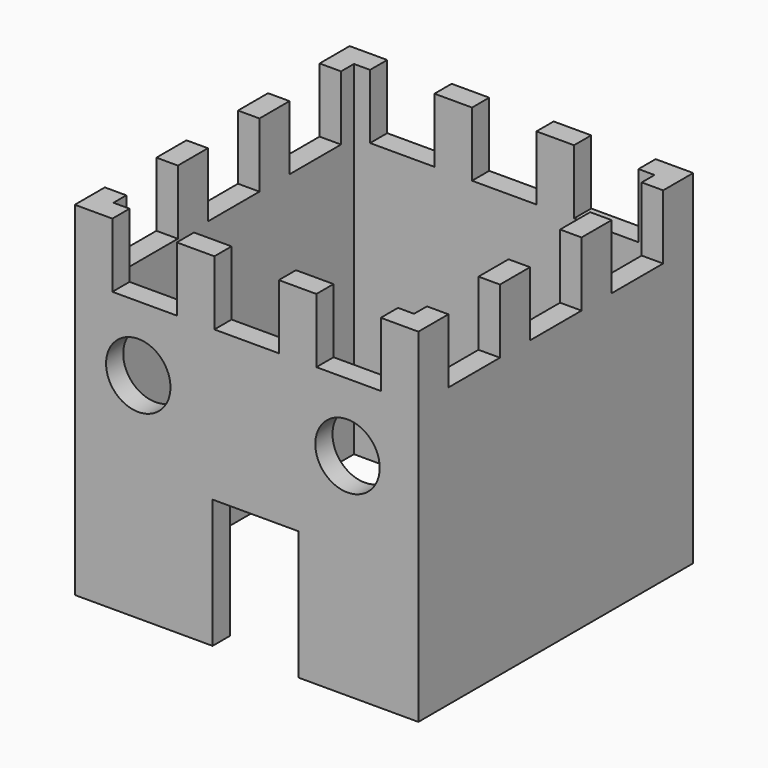
from build123d import *

# Parameters (mm, degrees)
F0_W      = 203.2
F0_H      = 203.2
F1_DEPTH  = 203.2
F2_W      = 177.8
F2_H      = 177.8
F3_DEPTH  = 203.2
F4_W      = 50.8
F4_H      = 76.2
F5_DEPTH  = 25.4
F6_W      = 38.1
F6_H      = 38.1
F7_DEPTH  = 25.4
F8_W      = 38.1
F8_H      = 38.1
F9_DEPTH  = 25.4
F10_W     = 38.1
F10_H     = 38.1
F11_DEPTH = 25.4
F12_W     = 38.1
F12_H     = 38.1
F13_DEPTH = 25.4
F14_R     = 19.05
F15_DEPTH = 25.4


with BuildPart() as f1:
    # F0 (on Front) → F1 (new body)
    with BuildSketch(Plane.XZ):
        Rectangle(F0_W, F0_H)
    extrude(amount=F1_DEPTH)

    # F2 (on face) → F3 (cut)
    with BuildSketch(Plane.XY.offset(101.6)):
        with Locations((0, -101.6)):
            Rectangle(F2_W, F2_H)
    extrude(amount=-F3_DEPTH, mode=Mode.SUBTRACT)

    # F4 (on face) → F5 (cut)
    with BuildSketch(Plane.XZ.offset(203.2)):
        with Locations((5.292703, -63.5)):
            Rectangle(F4_W, F4_H)
    extrude(amount=-F5_DEPTH, mode=Mode.SUBTRACT)

    # F6 (on face) → F7 (cut)
    with BuildSketch(Plane.XZ.offset(203.2)):
        with Locations((-60.325, 82.55)):
            Rectangle(F6_W, F6_H)
        with Locations((0, 82.55)):
            Rectangle(F6_W, F6_H)
        with Locations((60.325, 82.55)):
            Rectangle(F6_W, F6_H)
    extrude(amount=-F7_DEPTH, mode=Mode.SUBTRACT)

    # F8 (on face) → F9 (cut)
    with BuildSketch(Plane.YZ.offset(101.6)):
        with Locations((-161.925, 82.55)):
            Rectangle(F8_W, F8_H)
        with Locations((-101.6, 82.55)):
            Rectangle(F8_W, F8_H)
        with Locations((-41.275, 82.55)):
            Rectangle(F8_W, F8_H)
    extrude(amount=-F9_DEPTH, mode=Mode.SUBTRACT)

    # F10 (on face) → F11 (cut)
    with BuildSketch(Plane(origin=(0, 0, 0), x_dir=(-1, 0, 0), z_dir=(0, 1, 0))):
        with Locations((-60.325, 82.55)):
            Rectangle(F10_W, F10_H)
        with Locations((0, 82.55)):
            Rectangle(F10_W, F10_H)
        with Locations((60.325, 82.55)):
            Rectangle(F10_W, F10_H)
    extrude(amount=-F11_DEPTH, mode=Mode.SUBTRACT)

    # F12 (on face) → F13 (cut)
    with BuildSketch(Plane(origin=(-101.6, 0, 0), x_dir=(0, -1, 0), z_dir=(-1, 0, 0))):
        with Locations((41.275, 82.55)):
            Rectangle(F12_W, F12_H)
        with Locations((101.6, 82.55)):
            Rectangle(F12_W, F12_H)
        with Locations((161.925, 82.55)):
            Rectangle(F12_W, F12_H)
    extrude(amount=-F13_DEPTH, mode=Mode.SUBTRACT)

    # F14 (on face) → F15 (cut)
    with BuildSketch(Plane.XZ.offset(203.2)):
        with Locations((-64.062351, 24.935062)):
            Circle(F14_R)
        with Locations((59.688135, 23.263682)):
            Circle(F14_R)
    extrude(amount=-F15_DEPTH, mode=Mode.SUBTRACT)


solid = f1.part
